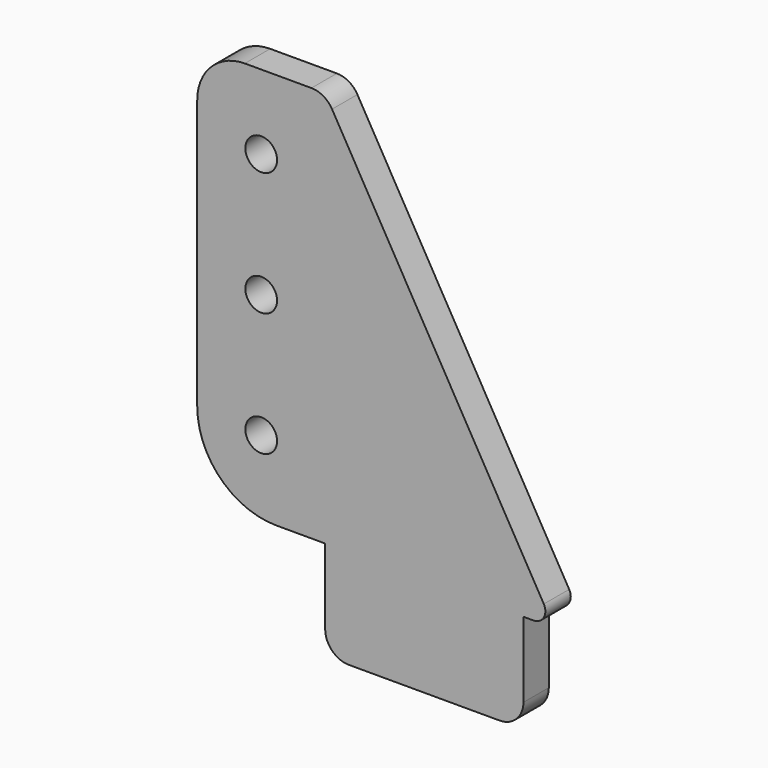
from build123d import *

# Parameters (mm, degrees)
F0_R     = 0.508
F1_DEPTH = 1.016


with BuildPart() as f1:
    # F0 (on Front) → F1 (new body)
    with BuildSketch(Plane.XZ):
        with BuildLine():
            Line((0, 3.175), (0, 0.762))
            ThreePointArc((0, 0.762), (0.223185, 0.223185), (0.762, 0))
            Line((0.762, 0), (5.588, 0))
            ThreePointArc((5.588, 0), (6.126815, 0.223185), (6.35, 0.762))
            Line((6.35, 0.762), (6.35, 3.175))
            Line((6.35, 3.175), (6.672437, 3.175))
            ThreePointArc((6.672437, 3.175), (7.002393, 3.3655), (7.002393, 3.7465))
            Line((7.002393, 3.7465), (0.21997, 15.494))
            ThreePointArc((0.21997, 15.494), (-0.058941, 15.772911), (-0.439941, 15.875))
            Line((-0.439941, 15.875), (-2.573652, 15.875))
            ThreePointArc((-2.573652, 15.875), (-3.651282, 15.428631), (-4.097652, 14.351))
            Line((-4.097652, 14.351), (-4.097652, 5.715))
            ThreePointArc((-4.097652, 5.715), (-3.353703, 3.918949), (-1.557652, 3.175))
            Line((-1.557652, 3.175), (0, 3.175))
        make_face()
        with Locations((-2.048826, 5.5626)):
            Circle(F0_R, mode=Mode.SUBTRACT)
        with Locations((-2.048826, 9.525)):
            Circle(F0_R, mode=Mode.SUBTRACT)
        with Locations((-2.048826, 13.4874)):
            Circle(F0_R, mode=Mode.SUBTRACT)
    extrude(amount=F1_DEPTH)


solid = f1.part
